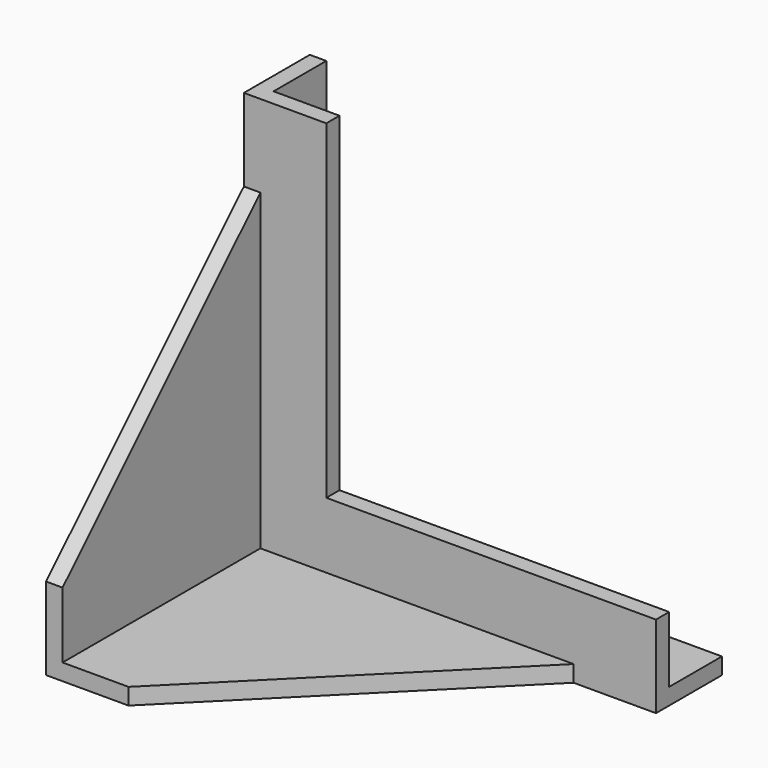
from build123d import *

# Parameters (mm, degrees)
F3_DEPTH = 2
F4_DEPTH = 2
F5_DEPTH = 2


with BuildPart() as f3:
    # F1 (on Right) → F3 (new body)
    with BuildSketch(Plane.YZ):
        Polygon((-30, 0), (10, 0), (10, 50), (0, 50), (0, 40), (-30, 10), align=None)
    extrude(amount=F3_DEPTH)

    # F0 (on Top) → F4 (join)
    with BuildSketch(Plane.XY):
        Polygon((0, 10), (0, -30), (10, -30), (40, 0), (50, 0), (50, 10), align=None)
    extrude(amount=F4_DEPTH)

    # F2 (on Front) → F5 (join)
    with BuildSketch(Plane.XZ):
        Polygon((0, 0), (40, 0), (50, 0), (50, 10), (10, 10), (10, 50), (0, 50), (0, 40), align=None)
    extrude(amount=-F5_DEPTH)


solid = f3.part
